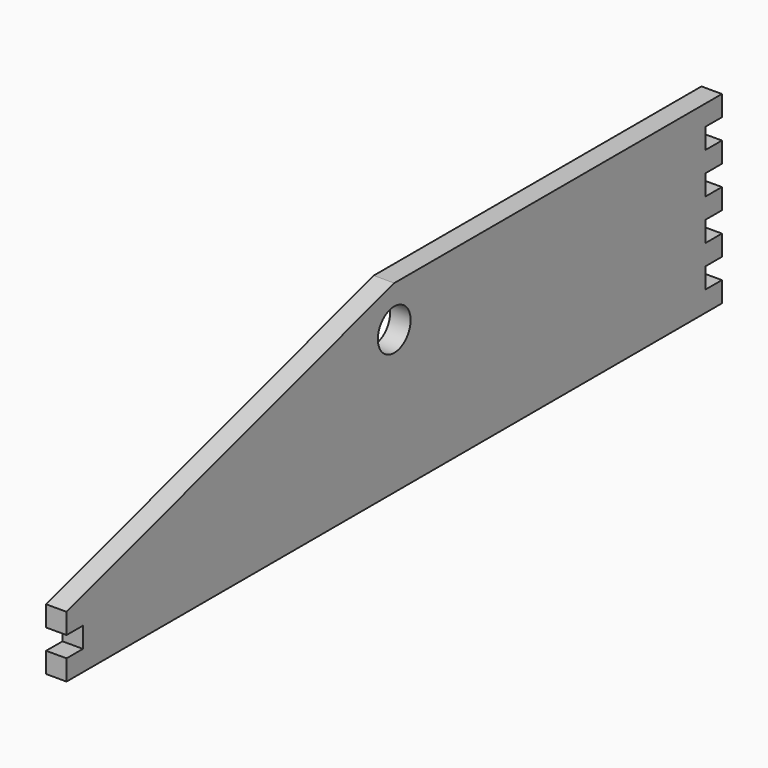
from build123d import *

# Parameters (mm, degrees)
F0_R     = 6.35
F1_DEPTH = 6.35


with BuildPart() as f1:
    # F0 (on Right) → F1 (new body)
    with BuildSketch(Plane.YZ):
        Polygon((0, 6.35), (0, 0), (254, 0), (254, 6.35), (247.65, 6.35), (247.65, 12.7), (254, 12.7), (254, 19.05), (247.65, 19.05), (247.65, 25.4), (254, 25.4), (254, 31.75), (247.65, 31.75), (247.65, 38.1), (254, 38.1), (254, 44.45), (247.65, 44.45), (247.65, 50.8), (254, 50.8), (254, 57.15), (127, 57.15), (0, 19.05), (0, 12.7), (6.35, 12.7), (6.35, 6.35), align=None)
        with Locations((127, 44.45)):
            Circle(F0_R, mode=Mode.SUBTRACT)
    extrude(amount=F1_DEPTH)


solid = f1.part
